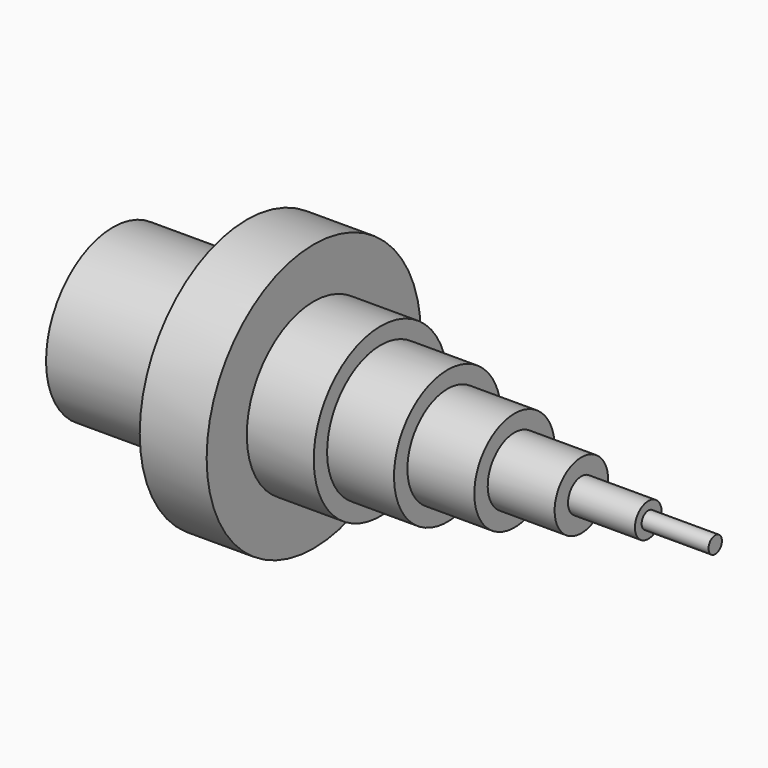
from build123d import *

# Parameters (mm, degrees)
F0_W   = 40
F0_H   = 5
F0_W_2 = 20
F0_H_2 = 2.5


with BuildPart() as f1:
    # F0 (on Front) → F1 (revolve)
    with BuildSketch(Plane.XZ):
        with Locations((20, 22.5)):
            Rectangle(F0_W, F0_H)
        Polygon((40, 20), (40, 0), (60, 0), (60, 25), (60, 40), (40, 40), (40, 25), align=None)
        Polygon((60, 25), (60, 0), (80, 0), (80, 20), (80, 25), align=None)
        Polygon((80, 20), (80, 0), (100, 0), (100, 15), (100, 20), align=None)
        Polygon((100, 15), (100, 0), (120, 0), (120, 10), (120, 15), align=None)
        Polygon((120, 10), (120, 0), (140, 0), (140, 5), (140, 10), align=None)
        Polygon((140, 5), (140, 0), (160, 0), (160, 2.5), (160, 5), align=None)
        with Locations((170, 1.25)):
            Rectangle(F0_W_2, F0_H_2)
    revolve(axis=Axis((90, 0, 0), (-1, 0, 0)))


solid = f1.part
